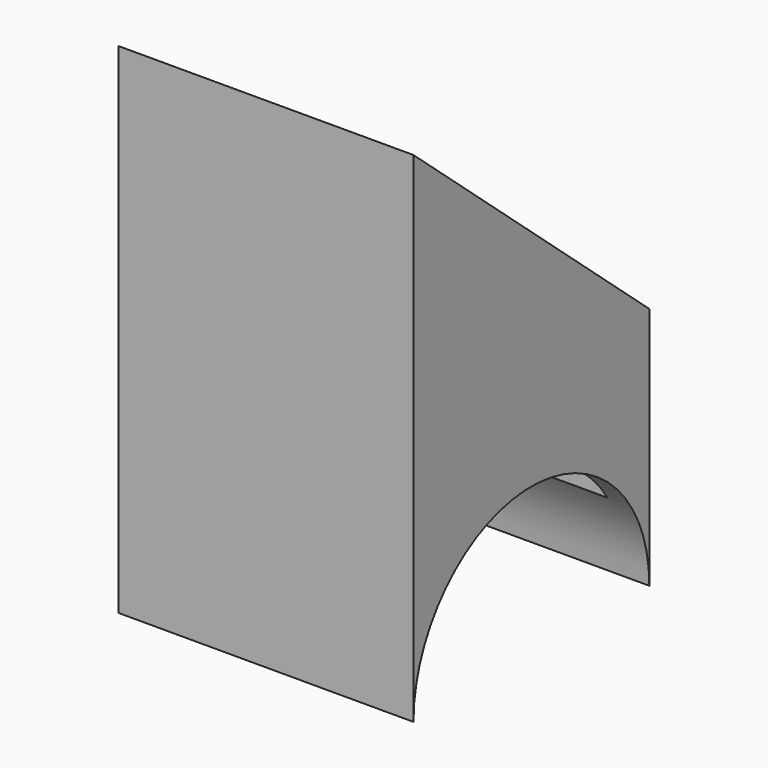
from build123d import *

# Parameters (mm, degrees)
F1_DEPTH = 12.7
F2_T     = -2
F4_DEPTH = 29.083


with BuildPart() as f1:
    # F0 (on Right) → F1 (new body, symmetric)
    with BuildSketch(Plane.YZ):
        Polygon((-12.7, 21.5), (-12.7, -21.5), (12.7, -21.5), (12.7, -0.5), align=None)
    extrude(amount=F1_DEPTH, both=True)

    # F2
    f2_openings = [f1.faces().sort_by_distance(p)[0] for p in [
        (0, 0, -21.5),
        (0, 0, 10.5),
    ]]
    offset(amount=F2_T, openings=f2_openings)

    # F3 (on face) → F4 (cut)
    with BuildSketch(Plane.YZ.offset(12.7)):
        with BuildLine():
            Line((-12.7, -21.5), (12.7, -21.5))
            ThreePointArc((12.7, -21.5), (0, -8.8), (-12.7, -21.5))
        make_face()
    extrude(amount=-F4_DEPTH, mode=Mode.SUBTRACT)


solid = f1.part
